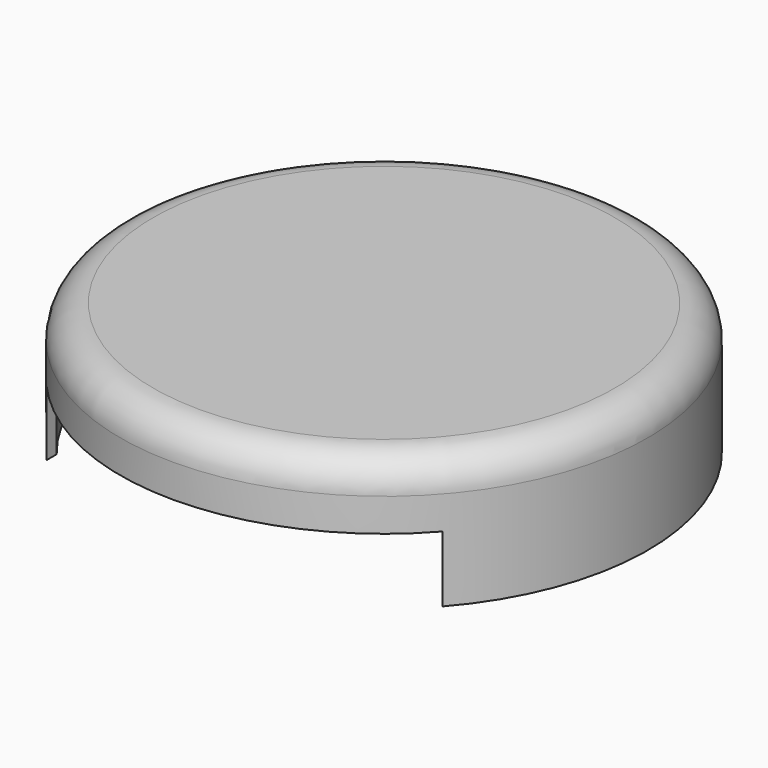
from build123d import *

# Parameters (mm, degrees)
F2_T     = -2.5
F3_W     = 120
F3_H     = 30
F4_DEPTH = 100


with BuildPart() as f1:
    # F0 (on Right) → F1 (revolve)
    with BuildSketch(Plane.YZ):
        with BuildLine():
            Line((-80, -10), (-80, -40))
            Line((-80, -40), (0, -40))
            Line((0, -40), (0, 0))
            Line((0, 0), (-70, 0))
            ThreePointArc((-70, 0), (-77.071068, -2.928932), (-80, -10))
        make_face()
    revolve(axis=Axis((0, 0, -20), (0, 0, -1)))

    # F2
    f2_openings = [f1.faces().sort_by_distance(p)[0] for p in [
        (0, 0, -40),
    ]]
    offset(amount=F2_T, openings=f2_openings)

    # F3 (on Front) → F4 (cut)
    with BuildSketch(Plane.XZ):
        with Locations((0, -35)):
            Rectangle(F3_W, F3_H)
    extrude(amount=F4_DEPTH, mode=Mode.SUBTRACT)


solid = f1.part
